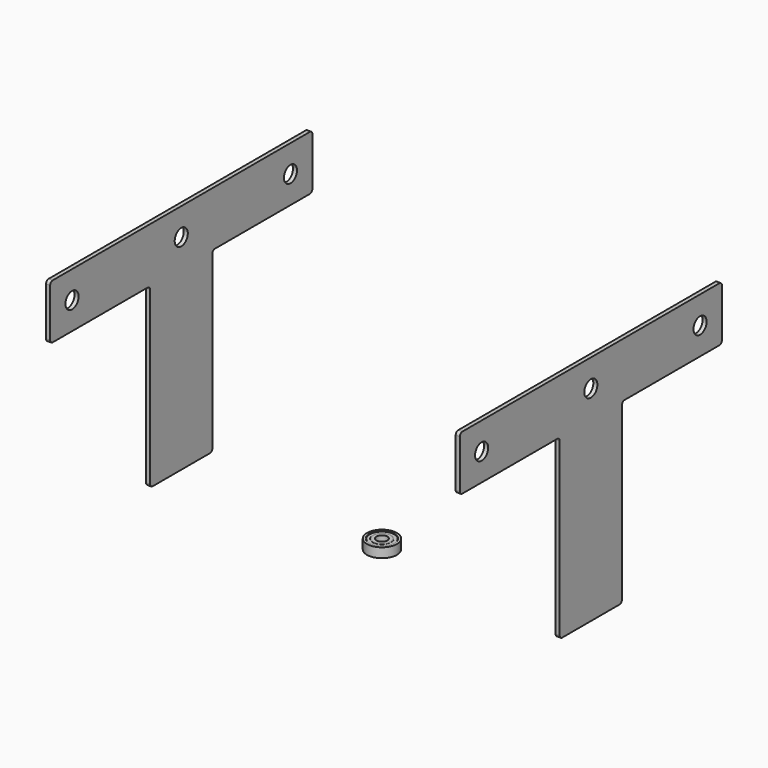
from build123d import *

# Parameters (mm, degrees)
SKETCH002_R  = 6
PAD_DEPTH    = 3
SKETCH001_R  = 6
PAD001_DEPTH = 3
CHAMFER_SIZE = 0.25


with BuildPart() as body:
    # Sketch002 → Pad (new body)
    with BuildSketch(Plane.YZ):
        with BuildLine():
            Line((-117.7, 170), (117.7, 170))
            ThreePointArc((120, 167.7), (119.326346, 169.326346), (117.7, 170))
            Line((120, 167.7), (120, 132.3))
            ThreePointArc((117.7, 130), (119.326346, 130.673654), (120, 132.3))
            Line((30.8, 130), (117.7, 130))
            ThreePointArc((30.8, 130), (29.173654, 129.326346), (28.5, 127.7))
            Line((28.5, 127.7), (28.5, 2.3))
            ThreePointArc((26.2, 0), (27.826346, 0.673654), (28.5, 2.3))
            Line((26.2, 0), (-26.2, 0))
            ThreePointArc((-28.5, 2.3), (-27.826346, 0.673654), (-26.2, 0))
            Line((-28.5, 2.3), (-28.5, 127.7))
            ThreePointArc((-28.5, 127.7), (-29.173654, 129.326346), (-30.8, 130))
            Line((-117.7, 130), (-30.8, 130))
            ThreePointArc((-120, 132.3), (-119.326346, 130.673654), (-117.7, 130))
            Line((-120, 132.3), (-120, 167.7))
            ThreePointArc((-117.7, 170), (-119.326346, 169.326346), (-120, 167.7))
        make_face()
        with Locations((-100, 150)):
            Circle(SKETCH002_R, mode=Mode.SUBTRACT)
        with Locations((100, 150)):
            Circle(SKETCH002_R, mode=Mode.SUBTRACT)
        with Locations((0, 150)):
            Circle(SKETCH002_R, mode=Mode.SUBTRACT)
    extrude(amount=PAD_DEPTH)


with BuildPart() as body_1:
    # Body placement: moved
    add(body.part.moved(Location((-150, 0, 0))))


with BuildPart() as body001:
    # Sketch001 → Pad001 (new body)
    with BuildSketch(Plane.YZ):
        with BuildLine():
            Line((-117.7, 170), (117.7, 170))
            ThreePointArc((120, 167.7), (119.326346, 169.326346), (117.7, 170))
            Line((120, 167.7), (120, 132.3))
            ThreePointArc((117.7, 130), (119.326346, 130.673654), (120, 132.3))
            Line((30.8, 130), (117.7, 130))
            ThreePointArc((30.8, 130), (29.173654, 129.326346), (28.5, 127.7))
            Line((28.5, 127.7), (28.5, 2.3))
            ThreePointArc((26.2, 0), (27.826346, 0.673654), (28.5, 2.3))
            Line((26.2, 0), (-26.2, 0))
            ThreePointArc((-28.5, 2.3), (-27.826346, 0.673654), (-26.2, 0))
            Line((-28.5, 2.3), (-28.5, 127.7))
            ThreePointArc((-28.5, 127.7), (-29.173654, 129.326346), (-30.8, 130))
            Line((-117.7, 130), (-30.8, 130))
            ThreePointArc((-120, 132.3), (-119.326346, 130.673654), (-117.7, 130))
            Line((-120, 132.3), (-120, 167.7))
            ThreePointArc((-117.7, 170), (-119.326346, 169.326346), (-120, 167.7))
        make_face()
        with Locations((-100, 150)):
            Circle(SKETCH001_R, mode=Mode.SUBTRACT)
        with Locations((100, 150)):
            Circle(SKETCH001_R, mode=Mode.SUBTRACT)
        with Locations((0, 150)):
            Circle(SKETCH001_R, mode=Mode.SUBTRACT)
    extrude(amount=PAD001_DEPTH)


with BuildPart() as body001_1:
    # Body001 placement: moved
    add(body001.part.moved(Location((150, 0, 0))))


with BuildPart() as chamfer_body:
    # Sketch → Revolution (revolve)
    with BuildSketch(Plane.XZ):
        Polygon((4, -3.5), (6.5, -3.5), (6.75, -3.25), (9, -3.25), (9.25, -3.5), (11, -3.5), (11, 3.5), (9.25, 3.5), (9, 3.25), (6.75, 3.25), (6.5, 3.5), (4, 3.5), align=None)
    revolve(axis=Axis((0, 0, 0), (0, 0, 1)))

    # Chamfer
    chamfer_edges = [chamfer_body.edges().sort_by_distance(p)[0] for p in [
        (-6.5, 0, 3.5),
        (-4, 0, -3.5),
    ]]
    chamfer(chamfer_edges, length=CHAMFER_SIZE)


solid = Compound([body_1.part, body001_1.part, chamfer_body.part])
